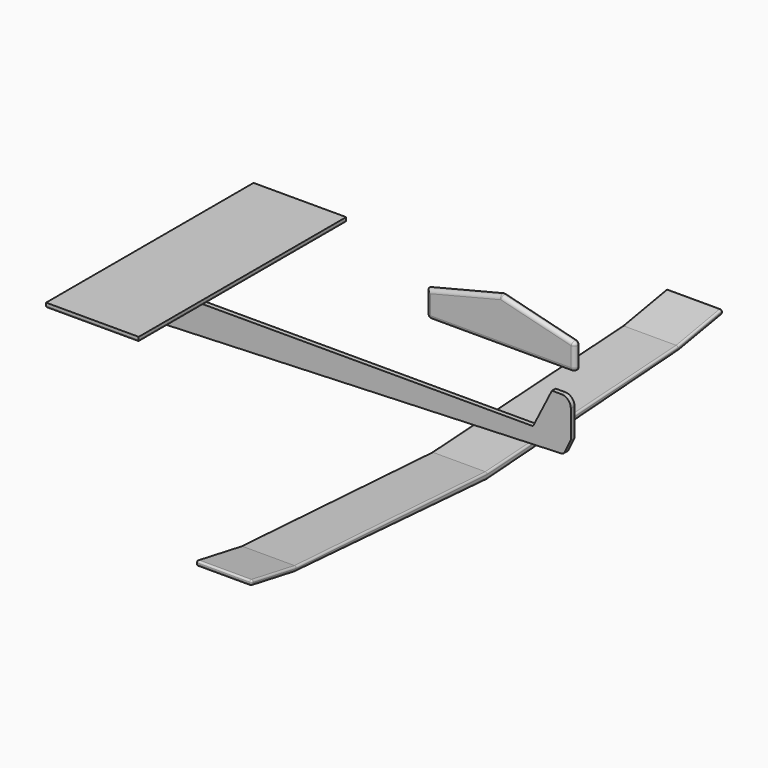
from build123d import *

# Parameters (mm, degrees)
F3_DEPTH = 6.35
F2_W     = 127
F2_H     = 6.35
F4_DEPTH = 355.6
F5_R     = 2.54
F6_DEPTH = 6.35
F8_DEPTH = 76.2
F9_R     = 2.54
F10_R    = 5.08
F10_2_R  = 5.08


with BuildPart() as f3:
    # F0 (on Front) → F3 (new body)
    with BuildSketch(Plane.XZ):
        with BuildLine():
            Line((445.178494, 35.674188), (-90.110242, 35.674188))
            ThreePointArc((-90.110242, 35.674188), (-111.771701, 14.012728), (-90.110242, -7.648731))
            Line((-90.110242, -7.648731), (509.733975, 15.450746))
            Line((509.733975, 15.450746), (519.489758, 35.674188))
            Line((519.489758, 35.674188), (519.489758, 74.205986))
            ThreePointArc((519.489758, 74.205986), (515.770014, 83.186242), (506.789758, 86.905986))
            Line((506.789758, 86.905986), (493.610442, 86.905986))
            Line((493.610442, 86.905986), (467.718842, 35.674188))
            Line((467.718842, 35.674188), (445.178494, 35.674188))
        make_face()
    extrude(amount=F3_DEPTH)

    # F10#2
    f10_2_edges = [f3.edges().sort_by_distance(p)[0] for p in [
        (509.733975, -3.175, 15.450746),
    ]]
    fillet(f10_2_edges, radius=F10_2_R)


with BuildPart() as f4:
    # F2 (on Front) → F4 (new body)
    with BuildSketch(Plane.XZ):
        with Locations((142.903406, 197.321931)):
            Rectangle(F2_W, F2_H)
    extrude(amount=F4_DEPTH)

    # F5
    f5_edges = [f4.edges().sort_by_distance(p)[0] for p in [
        (206.403406, -177.8, 194.146931),
        (79.403406, -177.8, 194.146931),
        (142.903406, -355.6, 194.146931),
        (142.903406, 0, 194.146931),
    ]]
    fillet(f5_edges, radius=F5_R)


with BuildPart() as f6:
    # F1 (on Front) → F6 (new body)
    with BuildSketch(Plane.XZ):
        Polygon((321.909756, 153.752377), (321.909756, 118.192377), (423.509756, 118.192377), (423.509756, 179.152377), align=None)
        Polygon((423.509756, 179.152377), (423.509756, 118.192377), (525.109756, 118.192377), (525.109756, 153.752377), align=None)
    extrude(amount=F6_DEPTH)

    # F10
    f10_edges = [f6.edges().sort_by_distance(p)[0] for p in [
        (525.109756, -6.35, 135.972377),
        (372.709756, -6.35, 166.452377),
        (423.509756, -3.175, 179.152377),
        (474.309756, -6.35, 166.452377),
        (423.509756, -6.35, 118.192377),
        (321.909756, -6.35, 135.972377),
        (321.909756, -3.175, 118.192377),
        (525.109756, -3.175, 118.192377),
        (525.109756, -3.175, 153.752377),
    ]]
    fillet(f10_edges, radius=F10_R)


with BuildPart() as f8:
    # F7 (on Right) → F8 (new body)
    with BuildSketch(Plane.YZ):
        Polygon((75.003583, -300.791129), (404.441396, -323.213599), (404.441396, -314.385496), (77.396057, -294.768867), (1.120834, -281.090828), (0, -287.341127), align=None)
        Polygon((404.441396, -314.385496), (404.441396, -323.213599), (733.879209, -300.791129), (808.882792, -287.341127), (807.761959, -281.090828), (731.486735, -294.768867), align=None)
    extrude(amount=F8_DEPTH)

    # F9
    f9_edges = [f8.edges().sort_by_distance(p)[0] for p in [
        (38.1, 807.761959, -281.090828),
        (76.2, 769.624347, -287.929848),
        (76.2, 567.964066, -304.577181),
        (76.2, 240.918726, -304.577181),
        (38.1, 808.882792, -287.341127),
        (76.2, 771.381001, -294.066128),
        (76.2, 808.322375, -284.215977),
        (76.2, 569.160303, -312.002364),
        (76.2, 239.722489, -312.002364),
        (76.2, 37.501791, -294.066128),
        (76.2, 39.258445, -287.929848),
        (76.2, 0.560417, -284.215977),
        (38.1, 1.120834, -281.090828),
        (0, 0.560417, -284.215977),
        (38.1, 0, -287.341127),
        (0, 567.964066, -304.577181),
        (0, 569.160303, -312.002364),
        (0, 239.722489, -312.002364),
        (0, 240.918726, -304.577181),
        (0, 39.258445, -287.929848),
        (0, 37.501791, -294.066128),
        (0, 771.381001, -294.066128),
        (0, 769.624347, -287.929848),
    ]]
    fillet(f9_edges, radius=F9_R)


solid = Compound([f3.part, f4.part, f6.part, f8.part])
